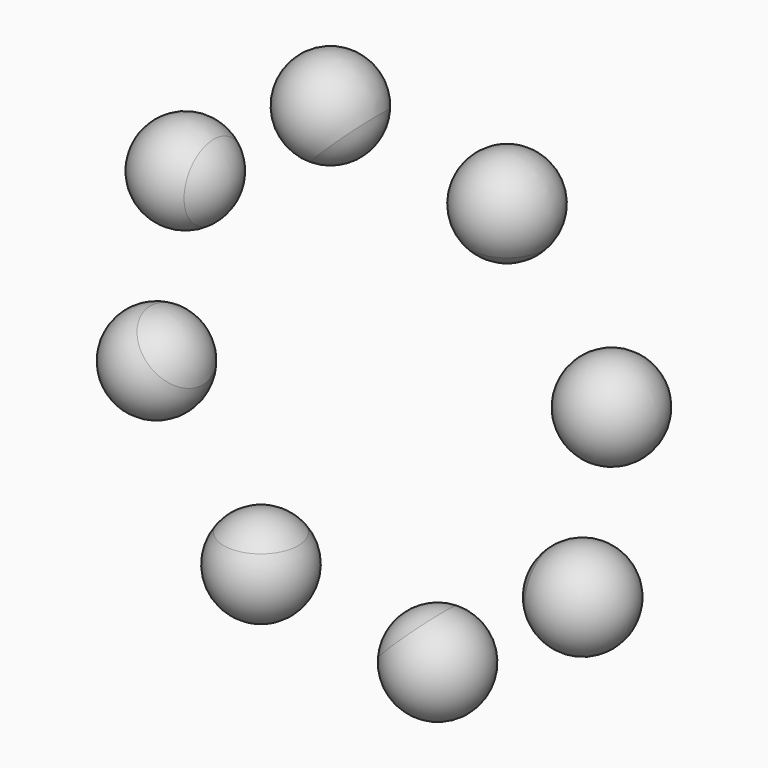
from build123d import *

# Parameters (mm, degrees)
F1_COUNT = 8


with BuildPart() as f0:
    # F2 (on Front) → F0 (revolve)
    with BuildSketch(Plane.XZ):
        with BuildLine():
            ThreePointArc((0, 0), (-5.2322502586, 3.612114434), (-10.0770620904, 7.7293479432))
            ThreePointArc((-10.0770620904, 7.7293479432), (-11.3897479972, -5.6181527712), (0, -12.7))
            Line((0, -12.7), (0, 0))
        make_face()
        with BuildLine():
            Line((0, 0), (0, 12.7))
            ThreePointArc((0, 12.7), (-5.6181527712, 11.3897479972), (-10.0770620904, 7.7293479432))
            ThreePointArc((-10.0770620904, 7.7293479432), (-5.2322502586, 3.612114434), (0, 0))
        make_face()
    revolve(axis=Axis((0, 0, -2.4920953438), (0, 0, -1)))


with BuildPart() as f1_1:
    # F1: instance of F0
    add(f0.part.rotate(Axis((33.4144894572, 0, 53.9974248859), (0, -1, 0)), 1 * 360 / F1_COUNT))


with BuildPart() as f1_2:
    # F1: instance of F0
    add(f0.part.rotate(Axis((33.4144894572, 0, 53.9974248859), (0, -1, 0)), 2 * 360 / F1_COUNT))


with BuildPart() as f1_3:
    # F1: instance of F0
    add(f0.part.rotate(Axis((33.4144894572, 0, 53.9974248859), (0, -1, 0)), 3 * 360 / F1_COUNT))


with BuildPart() as f1_4:
    # F1: instance of F0
    add(f0.part.rotate(Axis((33.4144894572, 0, 53.9974248859), (0, -1, 0)), 4 * 360 / F1_COUNT))


with BuildPart() as f1_5:
    # F1: instance of F0
    add(f0.part.rotate(Axis((33.4144894572, 0, 53.9974248859), (0, -1, 0)), 5 * 360 / F1_COUNT))


with BuildPart() as f1_6:
    # F1: instance of F0
    add(f0.part.rotate(Axis((33.4144894572, 0, 53.9974248859), (0, -1, 0)), 6 * 360 / F1_COUNT))


with BuildPart() as f1_7:
    # F1: instance of F0
    add(f0.part.rotate(Axis((33.4144894572, 0, 53.9974248859), (0, -1, 0)), 7 * 360 / F1_COUNT))


solid = Compound([f0.part, f1_1.part, f1_2.part, f1_3.part, f1_4.part, f1_5.part, f1_6.part, f1_7.part])
